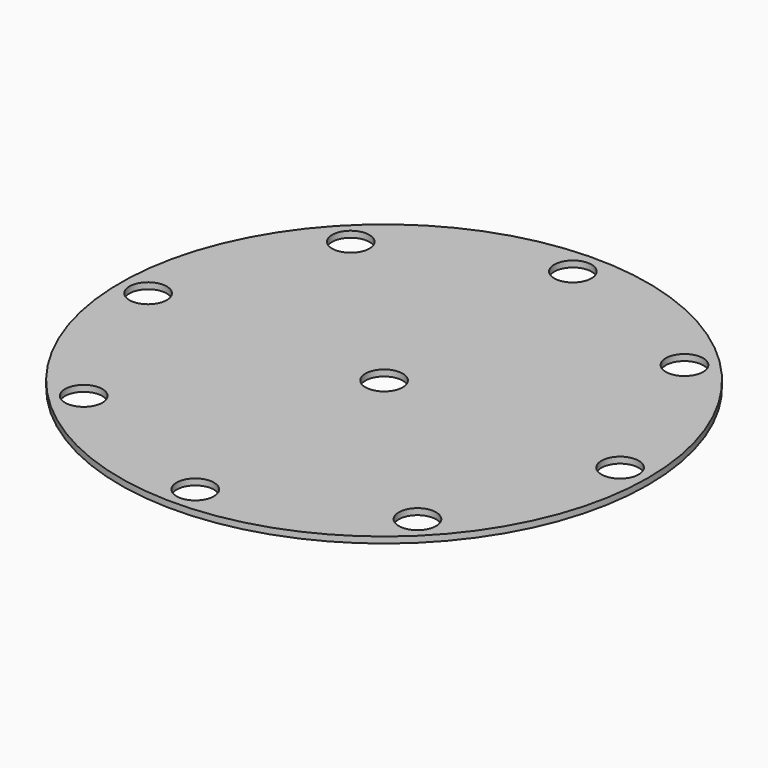
from build123d import *

# Parameters (mm, degrees)
F0_R     = 67.46875
F0_R_2   = 4.7625
F1_DEPTH = 1.5875


with BuildPart() as f1:
    # F0 (on Top) → F1 (new body)
    with BuildSketch(Plane.XY):
        Circle(F0_R)
        with Locations((-42.656217, -42.656217)):
            Circle(F0_R_2, mode=Mode.SUBTRACT)
        with Locations((0, -60.325)):
            Circle(F0_R_2, mode=Mode.SUBTRACT)
        with Locations((42.656217, -42.656217)):
            Circle(F0_R_2, mode=Mode.SUBTRACT)
        with Locations((-60.325, 0)):
            Circle(F0_R_2, mode=Mode.SUBTRACT)
        with Locations((-42.656217, 42.656217)):
            Circle(F0_R_2, mode=Mode.SUBTRACT)
        Circle(F0_R_2, mode=Mode.SUBTRACT)
        with Locations((60.325, 0)):
            Circle(F0_R_2, mode=Mode.SUBTRACT)
        with Locations((0, 60.325)):
            Circle(F0_R_2, mode=Mode.SUBTRACT)
        with Locations((42.656217, 42.656217)):
            Circle(F0_R_2, mode=Mode.SUBTRACT)
    extrude(amount=F1_DEPTH)


solid = f1.part
